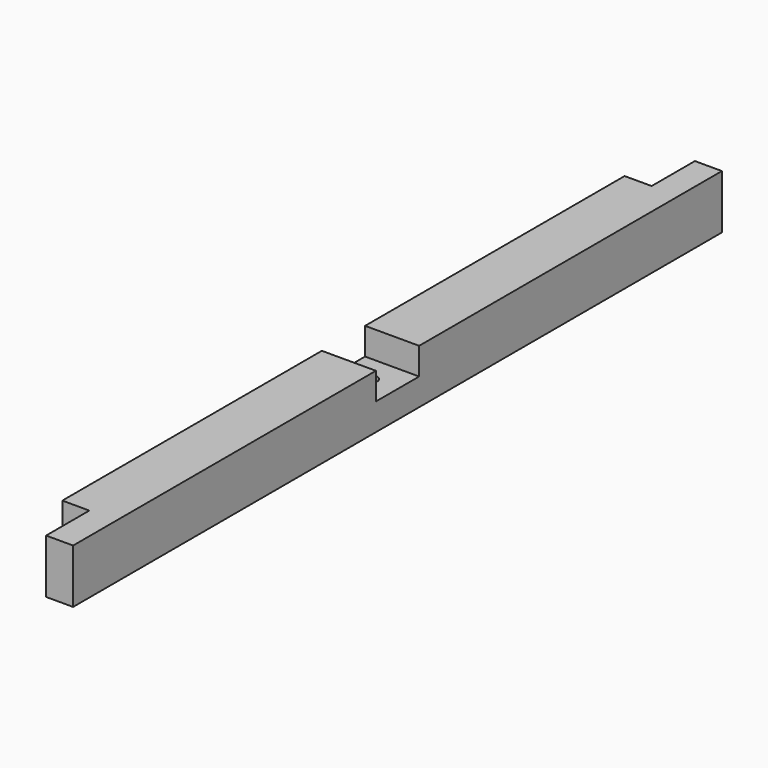
from build123d import *

# Parameters (mm, degrees)
SKETCH018_W     = 40
SKETCH018_H     = 40
PAD018_DEPTH    = 600
SKETCH019_W     = 40
SKETCH019_H     = 40
POCKET_DEPTH    = 20
SKETCH020_W     = 40
SKETCH020_H     = 40
POCKET001_DEPTH = 20
SKETCH064_R     = 5
POCKET019_DEPTH = 40.001


with BuildPart() as part:
    # Sketch018 → Pad018 (new body)
    with BuildSketch(Plane.XZ):
        with Locations((20, 280)):
            Rectangle(SKETCH018_W, SKETCH018_H)
    extrude(amount=PAD018_DEPTH)

    # Sketch019 (on Face4 of Pad018) → Pocket (cut)
    with BuildSketch(Plane(origin=(0, 0, 0), x_dir=(0, 0, -1), z_dir=(-1, 0, 0))):
        with Locations((-280, 580)):
            Rectangle(SKETCH019_W, SKETCH019_H)
        with Locations((-280, 20)):
            Rectangle(SKETCH019_W, SKETCH019_H)
    extrude(amount=-POCKET_DEPTH, mode=Mode.SUBTRACT)

    # Sketch020 (on Face1 of Pocket) → Pocket001 (cut)
    with BuildSketch(Plane(origin=(0, 0, 300), x_dir=(-1, 0, 0), z_dir=(0, 0, 1))):
        with Locations((-20, 300)):
            Rectangle(SKETCH020_W, SKETCH020_H)
    extrude(amount=-POCKET001_DEPTH, mode=Mode.SUBTRACT)

    # Sketch064 (on Face8 of Pocket001) → Pocket019 (cut, through all)
    with BuildSketch(Plane(origin=(0, 0, 260), x_dir=(1, 0, 0), z_dir=(0, 0, -1))):
        with Locations((20, 300)):
            Circle(SKETCH064_R)
    extrude(amount=-POCKET019_DEPTH, mode=Mode.SUBTRACT)


with BuildPart() as part_1:
    # Clone008 placement: moved
    add(part.part.moved(Location((900, 0, 0))))


with BuildPart() as part_2:
    # Clone012 placement: moved
    add(part_1.part.moved(Location((0, 0, 450))))


solid = part_2.part
